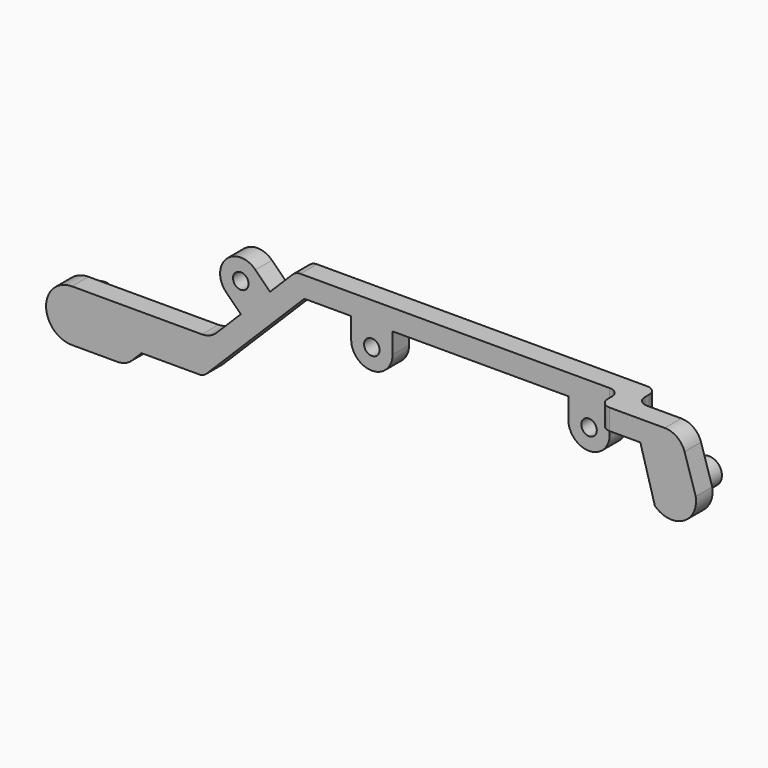
from build123d import *

# Parameters (mm, degrees)
PAD018_DEPTH = 4
PAD019_DEPTH = 4
SKETCH035_R  = 2.5
PAD020_DEPTH = 4
PAD021_DEPTH = 4
PAD022_DEPTH = 4
SKETCH038_R  = 2.5
PAD023_DEPTH = 5
FILLET_R     = 2
FILLET001_R  = 2
FILLET002_R  = 4
FILLET003_R  = 4
SKETCH049_R  = 1.5
PAD028_DEPTH = 4


with BuildPart() as obj1:
    # Sketch033 → Pad018 (new body)
    with BuildSketch(Plane.XZ):
        with BuildLine():
            Line((44.945992765, 17.5), (110, 17.5))
            Line((110, 21.5), (110, 17.5))
            Line((44.1871982538, 21.5), (110, 21.5))
            ThreePointArc((42.6541143847, 20.8649758691), (43.3574992426, 21.3349626055), (44.1871982538, 21.5))
            Line((23.7891385155, 2), (42.6541143847, 20.8649758691))
            Line((0, 2), (23.7891385155, 2))
            ThreePointArc((0, -2), (-2, 0), (0, 2))
            Line((0, -2), (24.6175656403, -2))
            ThreePointArc((26.0317792027, -1.4142135624), (25.382932505, -1.847759065), (24.6175656403, -2))
            Line((26.0317792027, -1.4142135624), (44.945992765, 17.5))
        make_face()
    extrude(amount=-PAD018_DEPTH)

    # Sketch034 (on Face11 of Pad018) → Pad019 (join)
    with BuildSketch(Plane.XZ):
        with BuildLine():
            ThreePointArc((-5.64e-08, 5), (-5, -1.69e-08), (-2.26e-08, -5))
            Line((10.4599999543, -5), (-2.26e-08, -5))
            Line((14.8031457045, -0.6568542495), (10.4599999543, -5))
            Line((26.7891385155, -0.6568542495), (14.8031457045, -0.6568542495))
            Line((26.7891385155, 5), (26.7891385155, -0.6568542495))
            Line((26.7891385155, 5), (-5.64e-08, 5))
        make_face()
    extrude(amount=-PAD019_DEPTH)

    # Sketch035 (on Face13 of Pad019) → Pad020 (join)
    with BuildSketch(Plane.XZ):
        Circle(SKETCH035_R)
    extrude(amount=PAD020_DEPTH)

    # Sketch036 (on Face7 of Pad020) → Pad021 (join)
    with BuildSketch(Plane(origin=(0, 0, 21.5), x_dir=(-1, 0, 0), z_dir=(0, 0, 1))):
        Polygon((-110, 0), (-106, 0), (-106, -9), (-121.594421, -9), (-121.594421, -5), (-110, -5), align=None)
    extrude(amount=-PAD021_DEPTH)

    # Sketch037 (on Face12 of Pad021) → Pad022 (join)
    with BuildSketch(Plane(origin=(0, 9, 0), x_dir=(1, 0, 0), z_dir=(0, 1, 0))):
        with BuildLine():
            Line((121.594421, -21.5), (112.78511, -21.5))
            Line((112.78511, -21.5), (116.730789, -7.623817))
            ThreePointArc((124.6315830417, -11.7967375602), (122.1948418839, -6.844398802), (116.730789, -7.623817))
            Line((124.6315830417, -11.7967375602), (121.594421, -21.5))
        make_face()
    extrude(amount=-PAD022_DEPTH)

    # Sketch038 (on Face21 of Pad022) → Pad023 (join)
    with BuildSketch(Plane.XZ.offset(-5)):
        with Locations((120, 11)):
            Circle(SKETCH038_R)
    extrude(amount=PAD023_DEPTH)

    # Fillet
    fillet_edges = [obj1.edges().sort_by_distance(p)[0] for p in [
        (110, 0, 19.5),
        (106, 9, 19.5),
    ]]
    fillet(fillet_edges, radius=FILLET_R)

    # Fillet001
    fillet001_edges = [obj1.edges().sort_by_distance(p)[0] for p in [
        (106, 4, 19.5),
        (110, 5, 19.5),
    ]]
    fillet(fillet001_edges, radius=FILLET001_R)

    # Fillet002
    fillet002_edges = [obj1.edges().sort_by_distance(p)[0] for p in [
        (121.594421, 7, 21.5),
    ]]
    fillet(fillet002_edges, radius=FILLET002_R)

    # Fillet003
    fillet003_edges = [obj1.edges().sort_by_distance(p)[0] for p in [
        (26.789139, 2, 5),
        (10.46, 2, -5),
    ]]
    fillet(fillet003_edges, radius=FILLET003_R)

    # Sketch049 (on Face17 of Fillet003) → Pad028 (join)
    with BuildSketch(Plane(origin=(0, 4, 0), x_dir=(1, 0, 0), z_dir=(0, 1, 0))):
        with BuildLine():
            ThreePointArc((62, -13.5000013856), (58.0000006928, -9.5), (54, -13.5))
            Line((54, -13.5), (54, -17.5))
            Line((61.9999986144, -17.5), (54, -17.5))
            Line((62, -13.5000013856), (61.9999986144, -17.5))
        make_face()
        with Locations((58, -13.5)):
            Circle(SKETCH049_R, mode=Mode.SUBTRACT)
        with BuildLine():
            ThreePointArc((104, -13.5000013856), (100.0000006928, -9.5), (96, -13.5))
            Line((96, -13.5), (96, -17.5))
            Line((96, -17.5), (104, -17.5))
            Line((104, -17.5), (104, -13.5000013856))
        make_face()
        with Locations((100, -13.5)):
            Circle(SKETCH049_R, mode=Mode.SUBTRACT)
        with BuildLine():
            ThreePointArc((29.8256872599, -13.6934049535), (29.8256877498, -19.3502596929), (35.4825424892, -19.3502582232))
            Line((38.310969614, -16.5218310984), (35.4825424892, -19.3502582232))
            Line((32.6541153645, -10.8649768489), (38.310969614, -16.5218310984))
            Line((29.8256872599, -13.6934049535), (32.6541153645, -10.8649768489))
        make_face()
        with Locations((32.6541143847, -16.5218320782)):
            Circle(SKETCH049_R, mode=Mode.SUBTRACT)
    extrude(amount=-PAD028_DEPTH)


with BuildPart() as obj1_1:
    # Body004 placement: moved
    add(obj1.part.moved(Location((0, 8, 13))))


with BuildPart() as part_mirroring:
    # Part__Mirroring: instance of obj1
    add(obj1_1.part.mirror(Plane(origin=(0, 0, 0), x_dir=(1, 0, 0), z_dir=(0, 1, 0))))


with BuildPart() as part_mirroring_1:
    # Part__Mirroring placement: moved
    add(part_mirroring.part.moved(Location((9.2368815712, 50, 3.828366479))))


solid = part_mirroring_1.part
